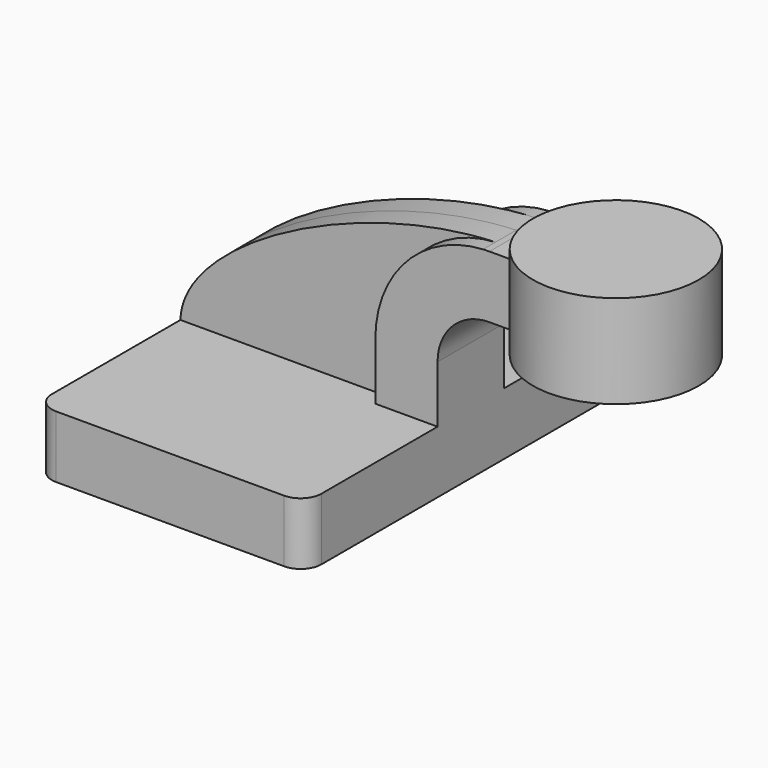
from build123d import *

# Parameters (mm, degrees)
F1_DEPTH = 63.5
F0_W     = 25.4
F0_H     = 19.05
F2_DEPTH = 12.7
F3_DEPTH = 7.9375
F5_R     = 6.35


with BuildPart() as f1:
    # F0 (on Front) → F1 (new body, symmetric)
    with BuildSketch(Plane.XZ):
        Polygon((22.225, 9.525), (-41.275, 9.525), (-41.275, -9.525), (41.275, -9.525), (41.275, 9.525), align=None)
    extrude(amount=F1_DEPTH, both=True)

    # F0 (on Front) → F2 (join, symmetric)
    with BuildSketch(Plane.XZ):
        with Locations((73.025, 52.4002)):
            Rectangle(F0_W, F0_H)
        with BuildLine():
            Line((22.225, 27.0002), (22.225, 9.525))
            Line((22.225, 9.525), (41.275, 9.525))
            Line((41.275, 9.525), (41.275, 27.0002))
            ThreePointArc((41.275, 27.0002), (45.9246798487, 38.2255201513), (57.15, 42.8752))
            Line((57.15, 42.8752), (60.325, 42.8752))
            Line((60.325, 42.8752), (60.325, 61.9252))
            Line((60.325, 61.9252), (57.15, 61.9252))
            add(Edge.make_bspline(
                [(55.2099659043, 61.8712753019), (55.8590535699, 61.8953003864), (56.5058041555, 61.9133112934), (57.15, 61.9252)],
                knots=[109.841532406, 109.841532406, 109.841532406, 109.841532406, 111.5045361635, 111.5045361635, 111.5045361635, 111.5045361635], degree=3))
            ThreePointArc((55.2099659043, 61.8712753019), (31.7776595897, 51.0001993147), (22.225, 27.0002))
        make_face()
    extrude(amount=F2_DEPTH, both=True)

    # F0 (on Front) → F3 (join, symmetric)
    with BuildSketch(Plane.XZ):
        with BuildLine():
            add(Edge.make_bspline(
                [(-41.275, 9.525), (-40.7303956796, 32.4600275426), (12.3376731995, 60.2844165268), (55.2099659043, 61.8712753019)],
                knots=[0, 0, 0, 0, 109.841532406, 109.841532406, 109.841532406, 109.841532406], degree=3))
            Line((-41.275, 9.525), (22.225, 9.525))
            Line((22.225, 9.525), (22.225, 27.0002))
            ThreePointArc((22.225, 27.0002), (31.7776595897, 51.0001993147), (55.2099659043, 61.8712753019))
        make_face()
    extrude(amount=F3_DEPTH, both=True)

    # F0 (on Front) → F4 (revolve)
    with BuildSketch(Plane.XZ):
        Polygon((85.725, 66.675), (85.725, 61.9252), (85.725, 42.8752), (85.725, 38.1), (111.125, 38.1), (111.125, 66.675), align=None)
    revolve(axis=Axis((85.725, 0, 52.3875), (0, 0, 1)))

    # F5
    f5_edges = [f1.edges().sort_by_distance(p)[0] for p in [
        (-41.275, -63.5, 0),
        (41.275, -63.5, 0),
        (41.275, 63.5, 0),
        (-41.275, 63.5, 0),
    ]]
    fillet(f5_edges, radius=F5_R)


solid = f1.part
